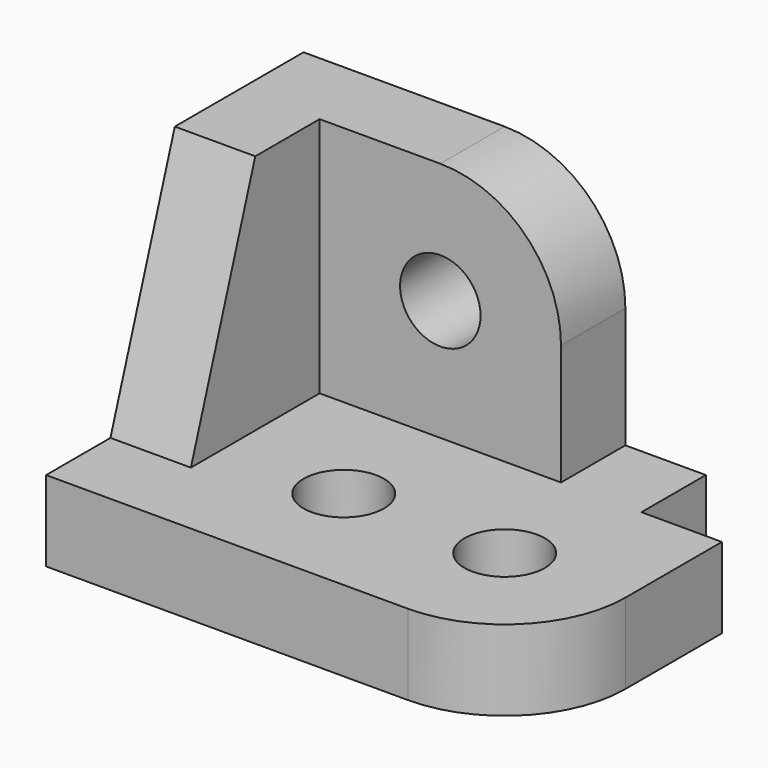
from build123d import *

# Parameters (mm, degrees)
F0_W      = 60
F0_H      = 40
F1_DEPTH  = 40
F2_W      = 60
F2_H      = 40
F3_DEPTH  = 30
F5_DEPTH  = 10.001
F6_W      = 25
F6_H      = 35
F7_DEPTH  = 10.001
F8_W      = 15
F8_H      = 15
F9_DEPTH  = 10.001
F10_R     = 5
F11_DEPTH = 10.001
F12_R     = 5
F13_DEPTH = 10.001
F14_R     = 15
F15_R     = 15


with BuildPart() as f1:
    # F0 (on Top) → F1 (new body)
    with BuildSketch(Plane.XY):
        with Locations((30, -20)):
            Rectangle(F0_W, F0_H)
    extrude(amount=F1_DEPTH)

    # F2 (on face) → F3 (cut)
    with BuildSketch(Plane.XY.offset(40)):
        with Locations((40, -30)):
            Rectangle(F2_W, F2_H)
    extrude(amount=-F3_DEPTH, mode=Mode.SUBTRACT)

    # F4 (on face) → F5 (cut, through all)
    with BuildSketch(Plane.YZ.offset(10)):
        Polygon((-30, 10), (-20, 40), (-20, 45), (-45, 45), (-45, 10), align=None)
    extrude(amount=-F5_DEPTH, mode=Mode.SUBTRACT)

    # F6 (on face) → F7 (cut, through all)
    with BuildSketch(Plane.XZ.offset(10)):
        with Locations((52.5, 27.5)):
            Rectangle(F6_W, F6_H)
    extrude(amount=-F7_DEPTH, mode=Mode.SUBTRACT)

    # F8 (on face) → F9 (cut, through all)
    with BuildSketch(Plane.XY.offset(10)):
        with Locations((57.5, -2.5)):
            Rectangle(F8_W, F8_H)
    extrude(amount=-F9_DEPTH, mode=Mode.SUBTRACT)

    # F10 (on face) → F11 (cut, through all)
    with BuildSketch(Plane.XY.offset(10)):
        with Locations((25, -25)):
            Circle(F10_R)
        with Locations((45, -25)):
            Circle(F10_R)
    extrude(amount=-F11_DEPTH, mode=Mode.SUBTRACT)

    # F12 (on face) → F13 (cut, through all)
    with BuildSketch(Plane.XZ.offset(10)):
        with Locations((25, 25)):
            Circle(F12_R)
    extrude(amount=-F13_DEPTH, mode=Mode.SUBTRACT)

    # F14
    f14_edges = [f1.edges().sort_by_distance(p)[0] for p in [
        (60, -40, 5),
    ]]
    fillet(f14_edges, radius=F14_R)

    # F15
    f15_edges = [f1.edges().sort_by_distance(p)[0] for p in [
        (40, -5, 40),
    ]]
    fillet(f15_edges, radius=F15_R)


solid = f1.part
